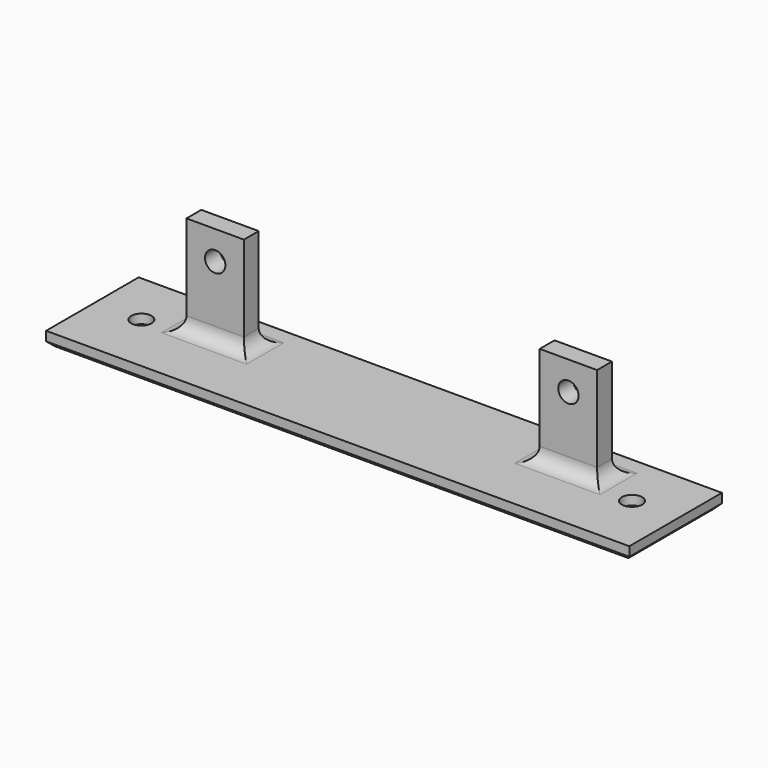
from build123d import *

# Parameters (mm, degrees)
SKETCH_W     = 126
SKETCH_H     = 25
SKETCH_R     = 2.2
PAD_DEPTH    = 3
SKETCH001_W  = 12.4
SKETCH001_H  = 4
PAD001_DEPTH = 21.497
SKETCH002_R  = 2.2
POCKET_DEPTH = 4
CHAMFER_SIZE = 1
FILLET_R     = 3


with BuildPart() as part:
    # Sketch → Pad (new body)
    with BuildSketch(Plane.XY):
        Rectangle(SKETCH_W, SKETCH_H)
        with Locations((-53, 0.726)):
            Circle(SKETCH_R, mode=Mode.SUBTRACT)
        with Locations((53, 0.726)):
            Circle(SKETCH_R, mode=Mode.SUBTRACT)
    extrude(amount=PAD_DEPTH)

    # Sketch001 → Pad001 (new body)
    with BuildSketch(Plane.XY.offset(3)):
        with Locations((-38.154, 4.108)):
            Rectangle(SKETCH001_W, SKETCH001_H)
        with Locations((38.154, 4.108)):
            Rectangle(SKETCH001_W, SKETCH001_H)
    extrude(amount=PAD001_DEPTH)

    # Sketch002 → Pocket (cut)
    with BuildSketch(Plane.XZ.offset(-2.108)):
        with Locations((-38.154, 18.297)):
            Circle(SKETCH002_R)
    pocket = extrude(amount=-POCKET_DEPTH, mode=Mode.SUBTRACT)

    # Mirrored: Pocket across Sketch002 V_Axis
    add(pocket.mirror(Plane(origin=(0, 2.108, 0), x_dir=(0, -1, 0), z_dir=(1, 0, 0))), mode=Mode.SUBTRACT)

    # Chamfer
    chamfer_edges = [part.edges().sort_by_distance(p)[0] for p in [
        (0, 12.5, 0),
        (63, 0, 0),
        (0, -12.5, 0),
        (-63, 0, 0),
        (50.8, 0.726, 0),
        (-55.2, 0.726, 0),
    ]]
    chamfer(chamfer_edges, length=CHAMFER_SIZE)

    # Fillet
    fillet_edges = [part.edges().sort_by_distance(p)[0] for p in [
        (31.954, 4.108, 3),
        (38.154, 6.108, 3),
        (44.354, 4.108, 3),
        (38.154, 2.108, 3),
        (-38.154, 2.108, 3),
        (-31.954, 4.108, 3),
        (-38.154, 6.108, 3),
        (-44.354, 4.108, 3),
    ]]
    fillet(fillet_edges, radius=FILLET_R)


solid = part.part
